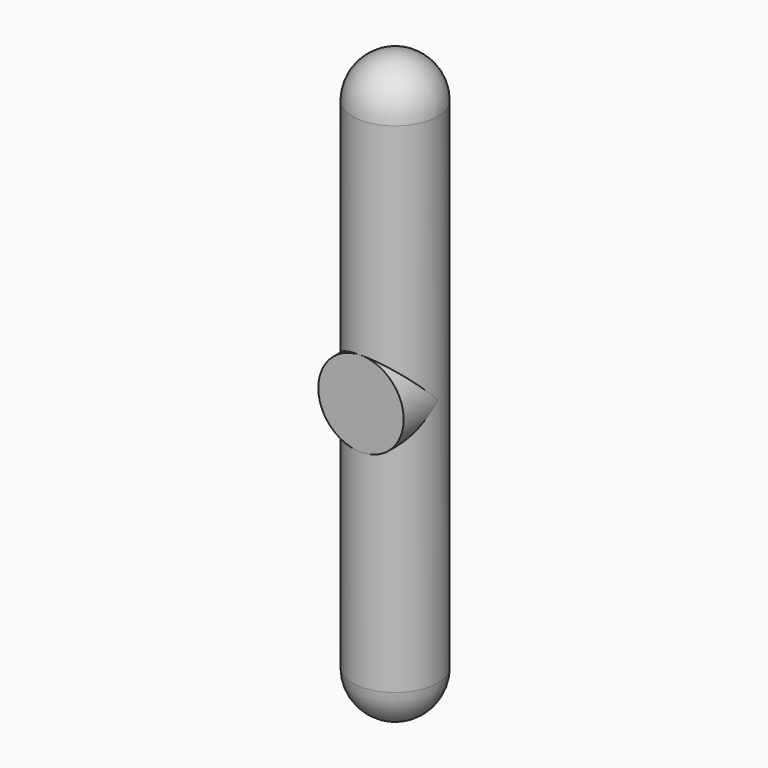
from build123d import *

# Parameters (mm, degrees)
F0_R     = 24.13
F1_DEPTH = 330.2
F2_R     = 24.13
F3_R     = 24.13
F4_R     = 24.13
F5_DEPTH = 24.13


with BuildPart() as f1:
    # F0 (on Top) → F1 (new body)
    with BuildSketch(Plane.XY):
        Circle(F0_R)
    extrude(amount=F1_DEPTH)

    # F2
    f2_edges = [f1.edges().sort_by_distance(p)[0] for p in [
        (-24.13, 0, 330.2),
    ]]
    fillet(f2_edges, radius=F2_R)

    # F3
    f3_edges = [f1.edges().sort_by_distance(p)[0] for p in [
        (-24.13, 0, 0),
    ]]
    fillet(f3_edges, radius=F3_R)

    # F4 (on Front) → F5 (join)
    with BuildSketch(Plane.XZ):
        with Locations((0, 165.1)):
            Circle(F4_R)
    extrude(amount=F5_DEPTH)


solid = f1.part
